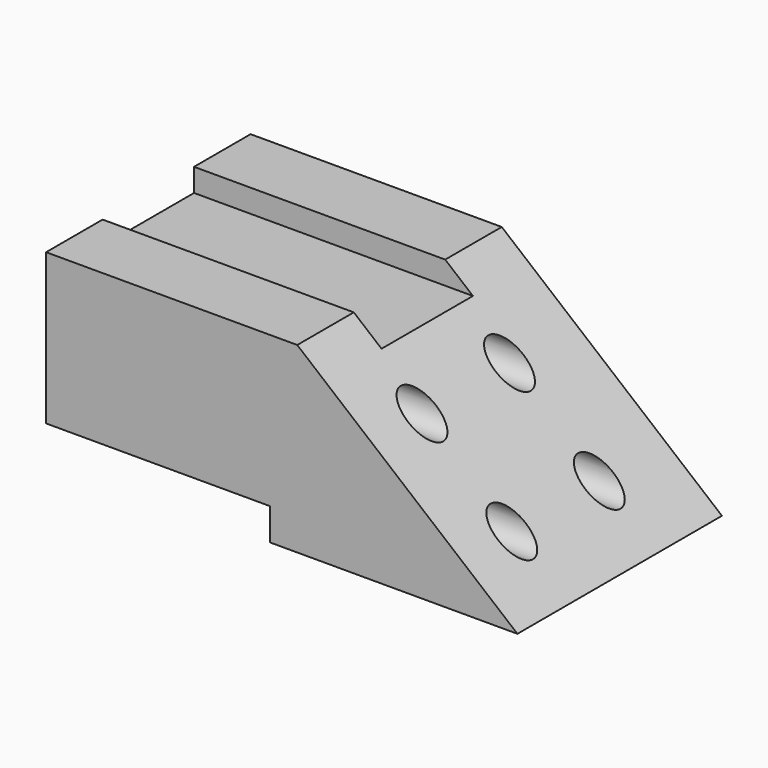
from build123d import *

# Parameters (mm, degrees)
F0_R          = 4.739513
F1_DEPTH      = 101.6
F1_DEPTH_BACK = 25.4
F3_DEPTH      = 68.875959
F4_W          = 60.299049
F4_H          = 8.607775
F5_DEPTH      = 68.875959


with BuildPart() as f1:
    # F0 (on Right) → F1 (new body, two sides)
    with BuildSketch(Plane.YZ) as f1_sk:
        Polygon((-21.380141, 25.972585), (-40.425949, 25.972585), (-40.425949, -23.252495), (28.44901, -23.252495), (28.44901, 25.972585), (9.403203, 25.972585), (9.403203, 19.771623), (-21.380141, 19.771623), align=None)
        with Locations((-23.484038, -10.747273)):
            Circle(F0_R, mode=Mode.SUBTRACT)
        with Locations((5.995752, -10.747273)):
            Circle(F0_R, mode=Mode.SUBTRACT)
        with Locations((-23.484038, 9.332708)):
            Circle(F0_R, mode=Mode.SUBTRACT)
        with Locations((5.995752, 9.332708)):
            Circle(F0_R, mode=Mode.SUBTRACT)
    extrude(amount=F1_DEPTH)
    extrude(f1_sk.sketch, amount=-F1_DEPTH_BACK)

    # F2 (on face) → F3 (cut, through all)
    with BuildSketch(Plane.XZ.offset(40.425949)):
        Polygon((101.6, 25.972585), (42.277858, 25.972585), (101.6, -23.252495), align=None)
    extrude(amount=-F3_DEPTH, mode=Mode.SUBTRACT)

    # F4 (on face) → F5 (cut, through all)
    with BuildSketch(Plane.XZ.offset(40.425949)):
        with Locations((4.749524, -18.948608)):
            Rectangle(F4_W, F4_H)
    extrude(amount=-F5_DEPTH, mode=Mode.SUBTRACT)


solid = f1.part
